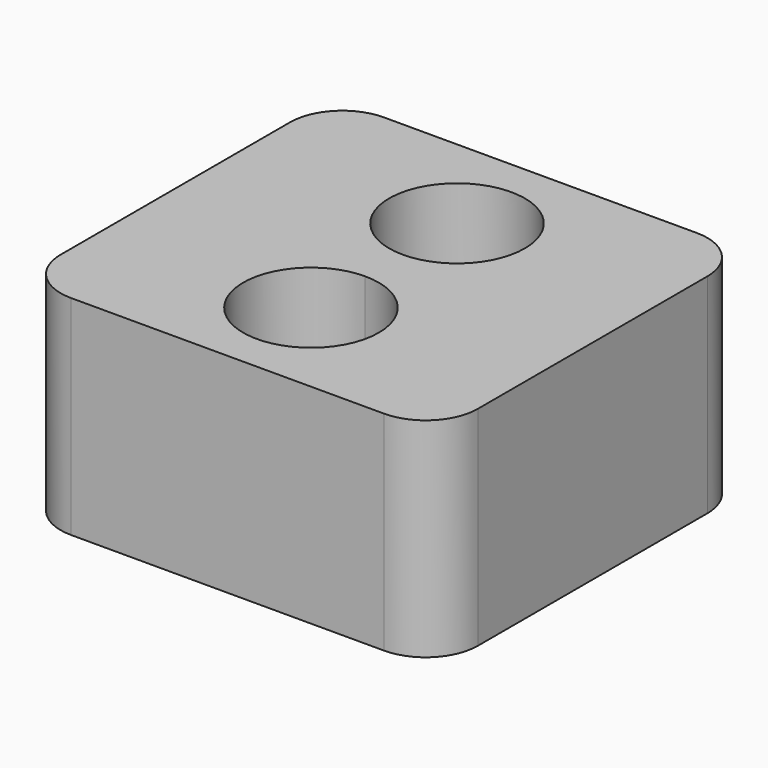
from build123d import *

# Parameters (mm, degrees)
F1_DEPTH = 8


with BuildPart() as f1:
    # F0 (on Top) → F1 (new body)
    with BuildSketch(Plane.XY):
        with BuildLine():
            Line((24.033267, 22.719095), (12.033267, 22.719095))
            ThreePointArc((12.033267, 22.719095), (10.619054, 22.133308), (10.033267, 20.719095))
            Line((10.033267, 20.719095), (10.033267, 9.719095))
            ThreePointArc((10.033267, 9.719095), (10.619054, 8.304881), (12.033267, 7.719095))
            Line((12.033267, 7.719095), (24.033267, 7.719095))
            ThreePointArc((24.033267, 7.719095), (25.447481, 8.304881), (26.033267, 9.719095))
            Line((26.033267, 9.719095), (26.033267, 20.719095))
            ThreePointArc((26.033267, 20.719095), (25.447481, 22.133308), (24.033267, 22.719095))
        make_face()
        with BuildLine():
            ThreePointArc((20.633267, 11.719095), (16.19479, 9.880617), (18.033267, 14.319095))
            ThreePointArc((18.033267, 14.319095), (19.871745, 13.557572), (20.633267, 11.719095))
        make_face(mode=Mode.SUBTRACT)
        with BuildLine():
            ThreePointArc((18.033267, 16.119095), (16.19479, 20.557572), (20.633267, 18.719095))
            ThreePointArc((20.633267, 18.719095), (19.871745, 16.880617), (18.033267, 16.119095))
        make_face(mode=Mode.SUBTRACT)
    extrude(amount=F1_DEPTH)


solid = f1.part
